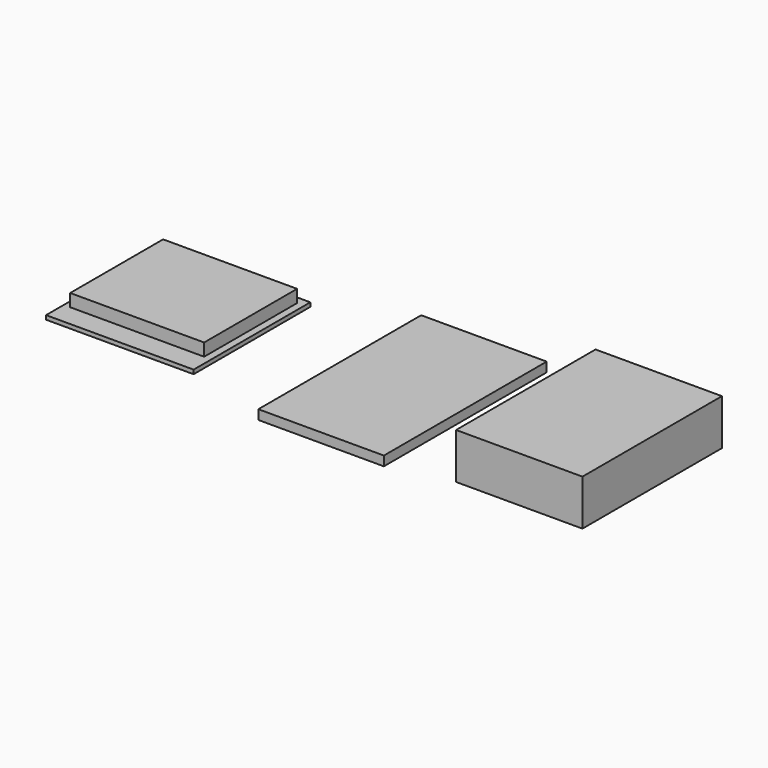
from build123d import *

# Parameters (mm, degrees)
F0_W     = 37
F0_H     = 60
F1_DEPTH = 2.8
F2_W     = 43.5
F2_H     = 43
F3_DEPTH = 1.2
F4_W     = 37.26
F4_H     = 51.4
F5_DEPTH = 13.5
F6_W     = 39.5
F6_H     = 34.25
F7_DEPTH = 3.7


with BuildPart() as f1:
    # F0 (on Top) → F1 (new body)
    with BuildSketch(Plane.XY):
        Rectangle(F0_W, F0_H)
    extrude(amount=F1_DEPTH)


with BuildPart() as f3:
    # F2 (on Top) → F3 (new body)
    with BuildSketch(Plane.XY):
        with Locations((-66.134065, 0)):
            Rectangle(F2_W, F2_H)
    extrude(amount=F3_DEPTH)

    # F6 (on face) → F7 (join)
    with BuildSketch(Plane.XY.offset(1.2)):
        with Locations((-66.256433, 2.157366)):
            Rectangle(F6_W, F6_H)
    extrude(amount=F7_DEPTH)


with BuildPart() as f5:
    # F4 (on Top) → F5 (new body)
    with BuildSketch(Plane.XY):
        with Locations((54.978926, 0)):
            Rectangle(F4_W, F4_H)
    extrude(amount=F5_DEPTH)


solid = Compound([f1.part, f3.part, f5.part])
